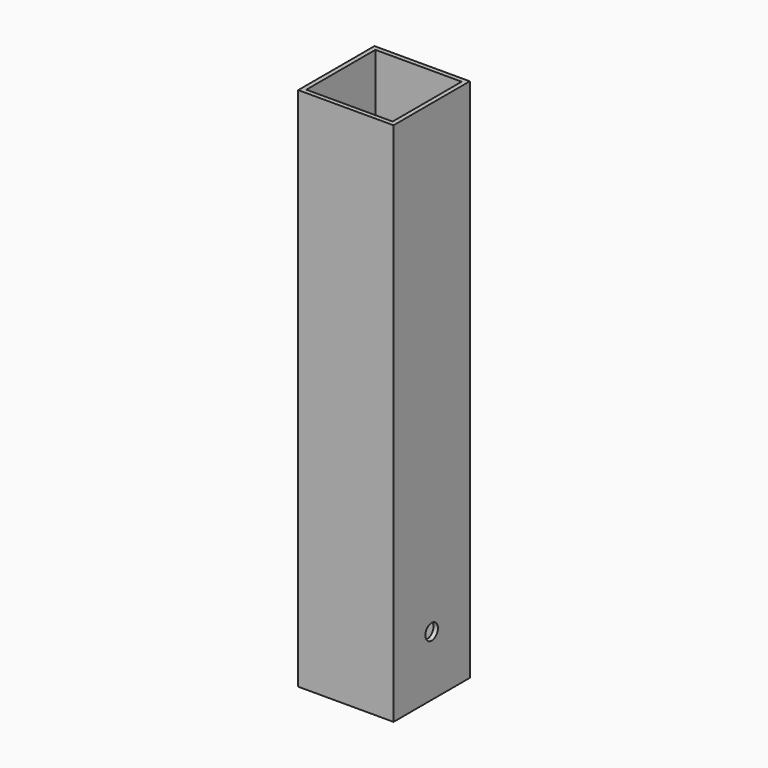
from build123d import *

# Parameters (mm, degrees)
F0_W     = 63.5
F0_H     = 63.5
F0_W_2   = 57.5
F0_H_2   = 57.5
F1_DEPTH = 350
F2_R     = 5.25
F3_DEPTH = 10


with BuildPart() as f1:
    # F0 (on Top) → F1 (new body)
    with BuildSketch(Plane.XY):
        with Locations((2.538389, -2.516717)):
            Rectangle(F0_W, F0_H)
        with Locations((2.538389, -2.516717)):
            Rectangle(F0_W_2, F0_H_2, mode=Mode.SUBTRACT)
    extrude(amount=F1_DEPTH)

    # F2 (on face) → F3 (cut)
    with BuildSketch(Plane.YZ.offset(34.288389)):
        with Locations((-2.516717, 40)):
            Circle(F2_R)
    extrude(amount=-F3_DEPTH, mode=Mode.SUBTRACT)


solid = f1.part
